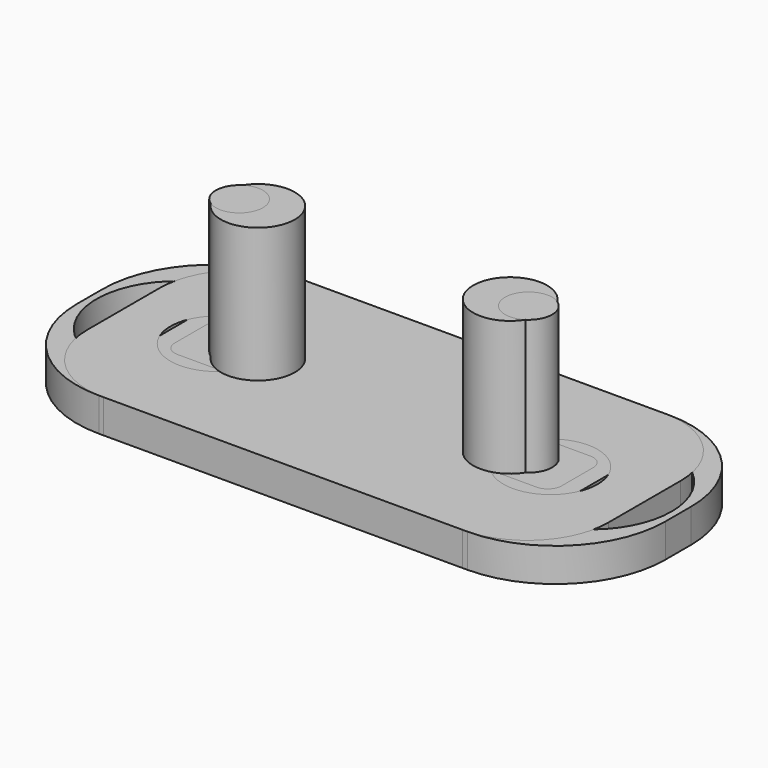
from build123d import *

# Parameters (mm, degrees)
PAD_DEPTH       = 2
SKETCH001_R     = 2.2
PAD001_DEPTH    = 8
PAD002_DEPTH    = 2
SKETCH003_R     = 4.8
POCKET_DEPTH    = 5
PAD003_DEPTH    = 2
SKETCH005_R     = 1.4
PAD004_DEPTH    = 8
PAD005_DEPTH    = 2
SKETCH007_R     = 2.8
POCKET001_DEPTH = 5


with BuildPart() as extruded5mm:
    # Sketch → Pad (new body)
    with BuildSketch(Plane.XY):
        with BuildLine():
            ThreePointArc((-10.426142, 3.5), (-11.892581, 2.892581), (-12.5, 1.426142))
            Line((-12.5, -1.426142), (-12.5, 1.426142))
            ThreePointArc((-12.5, -1.426142), (-11.892581, -2.892581), (-10.426142, -3.5))
            Line((10.426142, -3.5), (-10.426142, -3.5))
            ThreePointArc((10.426142, -3.5), (11.892581, -2.892581), (12.5, -1.426142))
            Line((12.5, 1.426142), (12.5, -1.426142))
            ThreePointArc((12.5, 1.426142), (11.892581, 2.892581), (10.426142, 3.5))
            Line((-10.426142, 3.5), (10.426142, 3.5))
        make_face()
    extrude(amount=PAD_DEPTH)

    # Sketch001 (on Face10 of Pad) → Pad001 (join)
    with BuildSketch(Plane.XY.offset(2)):
        with Locations((-7.5, 0)):
            Circle(SKETCH001_R)
        with Locations((7.5, 0)):
            Circle(SKETCH001_R)
    extrude(amount=PAD001_DEPTH)


with BuildPart() as end5mm:
    # Sketch002 → Pad002 (new body)
    with BuildSketch(Plane.XY):
        with BuildLine():
            ThreePointArc((-10.960184, 7.5), (-15.584532, 5.584532), (-17.5, 0.960184))
            Line((-17.5, -0.960184), (-17.5, 0.960184))
            ThreePointArc((-17.5, -0.960184), (-15.584532, -5.584532), (-10.960184, -7.5))
            Line((10.960184, -7.5), (-10.960184, -7.5))
            ThreePointArc((10.960184, -7.5), (15.584532, -5.584532), (17.5, -0.960184))
            Line((17.5, 0.960184), (17.5, -0.960184))
            ThreePointArc((17.5, 0.960184), (15.584532, 5.584532), (10.960184, 7.5))
            Line((-10.960184, 7.5), (10.960184, 7.5))
        make_face()
    extrude(amount=PAD002_DEPTH)

    # Sketch003 (on Face10 of Pad002) → Pocket (cut)
    with BuildSketch(Plane.XY.offset(2)):
        with Locations((-12.3, 0)):
            Circle(SKETCH003_R)
        with Locations((12.3, 0)):
            Circle(SKETCH003_R)
    extrude(amount=-POCKET_DEPTH, mode=Mode.SUBTRACT)


with BuildPart() as extruded3mm:
    # Sketch004 → Pad003 (new body)
    with BuildSketch(Plane.XY):
        with BuildLine():
            ThreePointArc((-10.683274, 2), (-11.260787, 1.760787), (-11.5, 1.183274))
            Line((-11.5, -1.183274), (-11.5, 1.183274))
            ThreePointArc((-11.5, -1.183274), (-11.260787, -1.760787), (-10.683274, -2))
            Line((10.683274, -2), (-10.683274, -2))
            ThreePointArc((10.683274, -2), (11.260787, -1.760787), (11.5, -1.183274))
            Line((11.5, 1.183274), (11.5, -1.183274))
            ThreePointArc((11.5, 1.183274), (11.260787, 1.760787), (10.683274, 2))
            Line((-10.683274, 2), (10.683274, 2))
        make_face()
    extrude(amount=PAD003_DEPTH)

    # Sketch005 (on Face10 of Pad003) → Pad004 (join)
    with BuildSketch(Plane.XY.offset(2)):
        with Locations((-8.6, 0)):
            Circle(SKETCH005_R)
        with Locations((8.6, 0)):
            Circle(SKETCH005_R)
    extrude(amount=PAD004_DEPTH)


with BuildPart() as extruded3mm001:
    # Sketch006 → Pad005 (new body)
    with BuildSketch(Plane.XY):
        with BuildLine():
            ThreePointArc((-10.676866, 7.5), (-14.087337, 6.087337), (-15.5, 2.676866))
            Line((-15.5, -2.676866), (-15.5, 2.676866))
            ThreePointArc((-15.5, -2.676866), (-14.087337, -6.087337), (-10.676866, -7.5))
            Line((10.676866, -7.5), (-10.676866, -7.5))
            ThreePointArc((10.676866, -7.5), (14.087337, -6.087337), (15.5, -2.676866))
            Line((15.5, 2.676866), (15.5, -2.676866))
            ThreePointArc((15.5, 2.676866), (14.087337, 6.087337), (10.676866, 7.5))
            Line((-10.676866, 7.5), (10.676866, 7.5))
        make_face()
    extrude(amount=PAD005_DEPTH)

    # Sketch007 (on Face10 of Pad005) → Pocket001 (cut)
    with BuildSketch(Plane.XY.offset(2)):
        with Locations((-9.9, 0)):
            Circle(SKETCH007_R)
        with Locations((9.9, 0)):
            Circle(SKETCH007_R)
    extrude(amount=-POCKET001_DEPTH, mode=Mode.SUBTRACT)


solid = Compound([extruded5mm.part, end5mm.part, extruded3mm.part, extruded3mm001.part])
